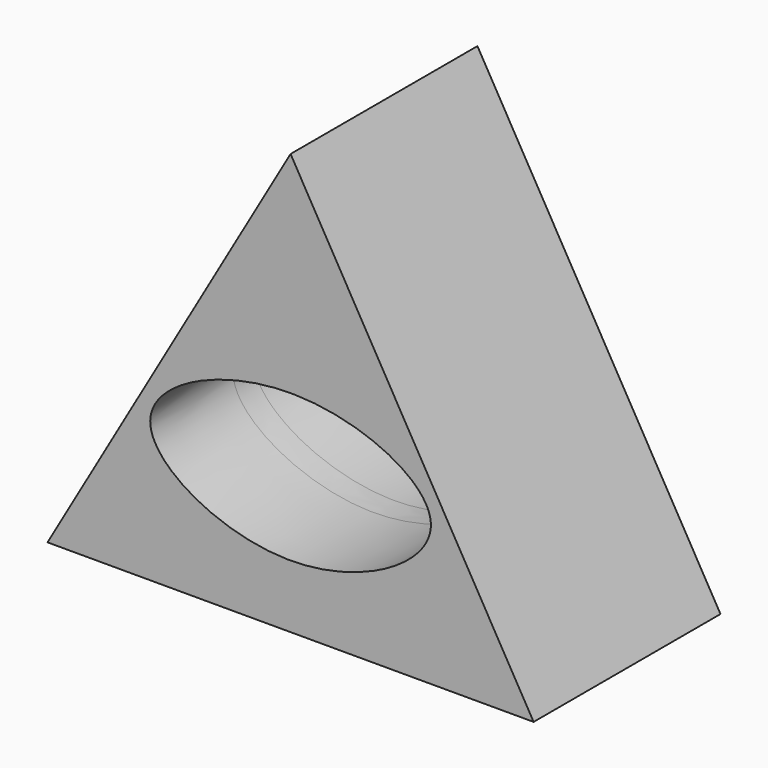
from build123d import *

# Parameters (mm, degrees)
F1_DEPTH = 20.32
F2_DEPTH = 25.4


with BuildPart() as f1:
    # F0 (on Front) → F1 (new body)
    with BuildSketch(Plane.XZ):
        Polygon((47.5709541673, -27.4651031941), (0, 54.9302063882), (-47.5709541673, -27.4651031941), align=None)
        with BuildLine():
            add(Edge.make_bspline(
                [(-27.4651031941, 0), (-27.3697597672, 7.1745393947), (0, 20.2905637994), (41.1986581774, 0.5475112228), (0, -23.009275005), (-27.5614500072, -7.2500436448), (-27.4651031941, 0)],
                knots=[0, 0, 0, 0, 0.2486913963, 0.4973827926, 0.7486913963, 1, 1, 1, 1], degree=3))
        make_face(mode=Mode.SUBTRACT)
    extrude(amount=F1_DEPTH)

    # F0 (on Front) + F1_face (on face) → F2 (join)
    with BuildSketch(Plane.XZ):
        Polygon((47.5709541673, -27.4651031941), (0, 54.9302063882), (-47.5709541673, -27.4651031941), align=None)
        with BuildLine():
            add(Edge.make_bspline(
                [(-27.4651031941, 0), (-27.3697597672, 7.1745393947), (0, 20.2905637994), (41.1986581774, 0.5475112228), (0, -23.009275005), (-27.5614500072, -7.2500436448), (-27.4651031941, 0)],
                knots=[0, 0, 0, 0, 0.2486913963, 0.4973827926, 0.7486913963, 1, 1, 1, 1], degree=3))
        make_face(mode=Mode.SUBTRACT)
    with BuildSketch(Plane(origin=(-0.0019370848, -20.32, 0.239959429), x_dir=(1, 0, 0), z_dir=(0, -1, 0))):
        Polygon((-47.5690170825, -27.7050626231), (47.5728912522, -27.7050626231), (0.0019370848, 54.6902469592), align=None)
        with BuildLine():
            add(Edge.make_bspline(
                [(-27.4631661093, -0.239959429), (-27.3678226824, 6.9345799657), (0.0019370848, 20.0506043704), (41.2005952622, 0.3075517938), (0.0019370848, -23.249234434), (-27.5595129224, -7.4900030738), (-27.4631661093, -0.239959429)],
                knots=[0, 0, 0, 0, 0.2486913963, 0.4973827926, 0.7486913963, 1, 1, 1, 1], degree=3))
        make_face(mode=Mode.SUBTRACT)
    extrude(amount=F2_DEPTH)


solid = f1.part
